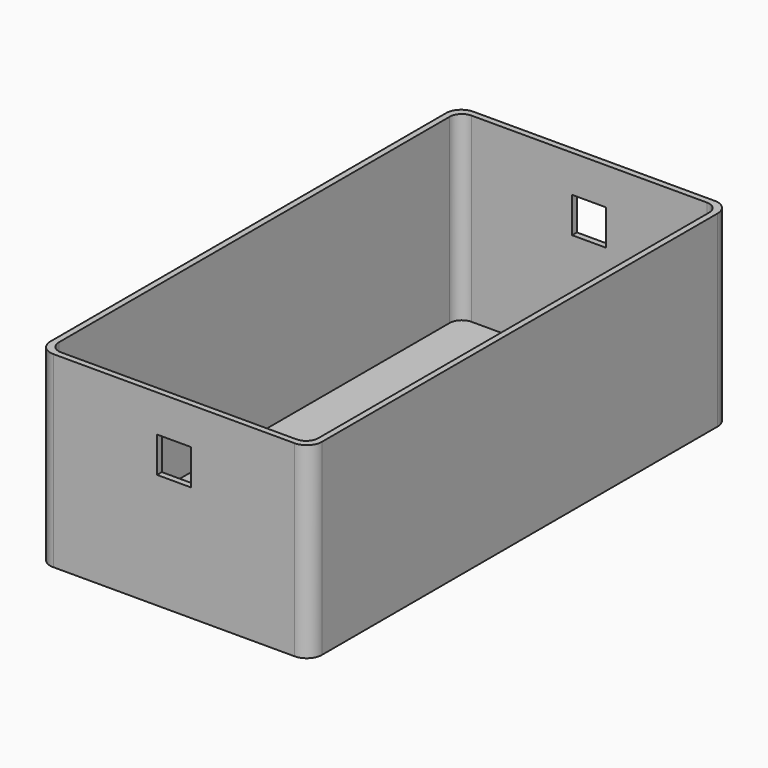
from build123d import *

# Parameters (mm, degrees)
PAD_DEPTH            = 24.8
POCKET_DEPTH         = 24
SKETCH002_R          = 2.5
POCKET001_DEPTH      = 24.801
POCKET001_DEPTH_BACK = -0.001
POCKET002_DEPTH      = 188.754774
POCKET002_DEPTH_BACK = -163.954774
SKETCH004_W          = 4.5
SKETCH004_H          = 4.7
POCKET003_DEPTH      = 34.701
POCKET003_DEPTH_BACK = -34.701


with BuildPart() as part:
    # Sketch → Pad (new body)
    with BuildSketch(Plane.XY):
        with BuildLine():
            ThreePointArc((-15.95, 34.7), (-17.364214, 34.114214), (-17.95, 32.7))
            Line((-17.95, -32.7), (-17.95, 32.7))
            ThreePointArc((-17.95, -32.7), (-17.364214, -34.114214), (-15.95, -34.7))
            Line((15.95, -34.7), (-15.95, -34.7))
            ThreePointArc((15.95, -34.7), (17.364214, -34.114214), (17.95, -32.7))
            Line((17.95, 32.7), (17.95, -32.7))
            ThreePointArc((17.95, 32.7), (17.364214, 34.114214), (15.95, 34.7))
            Line((-15.95, 34.7), (15.95, 34.7))
        make_face()
    extrude(amount=-PAD_DEPTH)

    # Sketch001 → Pocket (cut)
    with BuildSketch(Plane.XY):
        with BuildLine():
            ThreePointArc((-15.55, 33.9), (-16.681371, 33.431371), (-17.15, 32.3))
            Line((-17.15, -32.3), (-17.15, 32.3))
            ThreePointArc((-17.15, -32.3), (-16.681371, -33.431371), (-15.55, -33.9))
            Line((15.55, -33.9), (-15.55, -33.9))
            ThreePointArc((15.55, -33.9), (16.681371, -33.431371), (17.15, -32.3))
            Line((17.15, 32.3), (17.15, -32.3))
            ThreePointArc((17.15, 32.3), (16.681371, 33.431371), (15.55, 33.9))
            Line((-15.55, 33.9), (15.55, 33.9))
        make_face()
    extrude(amount=-POCKET_DEPTH, mode=Mode.SUBTRACT)

    # Sketch002 → Pocket001 (cut, two sides)
    with BuildSketch(Plane.XY) as pocket001_sk:
        with Locations((10.9, -14.5)):
            Circle(SKETCH002_R)
        with Locations((-10.9, -14.5)):
            Circle(SKETCH002_R)
    extrude(amount=-POCKET001_DEPTH, mode=Mode.SUBTRACT)
    extrude(pocket001_sk.sketch, amount=-POCKET001_DEPTH_BACK, mode=Mode.SUBTRACT)

    # Sketch003 → Pocket002 (cut, two sides)
    with BuildSketch(Plane.XY) as pocket002_sk:
        with BuildLine():
            ThreePointArc((5, -8), (0, -3), (-5, -8))
            Line((-5, -8), (-5, -26))
            ThreePointArc((-5, -26), (0, -31), (5, -26))
            Line((5, -26), (5, -8))
        make_face()
    pocket002 = extrude(amount=-POCKET002_DEPTH, mode=Mode.SUBTRACT)
    extrude(pocket002_sk.sketch, amount=-POCKET002_DEPTH_BACK, mode=Mode.SUBTRACT)

    # Mirrored: Pocket002 across Sketch003 H_Axis
    add(pocket002.mirror(Plane.ZX), mode=Mode.SUBTRACT)

    # Sketch004 → Pocket003 (cut, two sides)
    with BuildSketch(Plane.XZ) as pocket003_sk:
        with Locations((0, -7.25)):
            Rectangle(SKETCH004_W, SKETCH004_H)
    extrude(amount=-POCKET003_DEPTH, mode=Mode.SUBTRACT)
    extrude(pocket003_sk.sketch, amount=-POCKET003_DEPTH_BACK, mode=Mode.SUBTRACT)


solid = part.part
